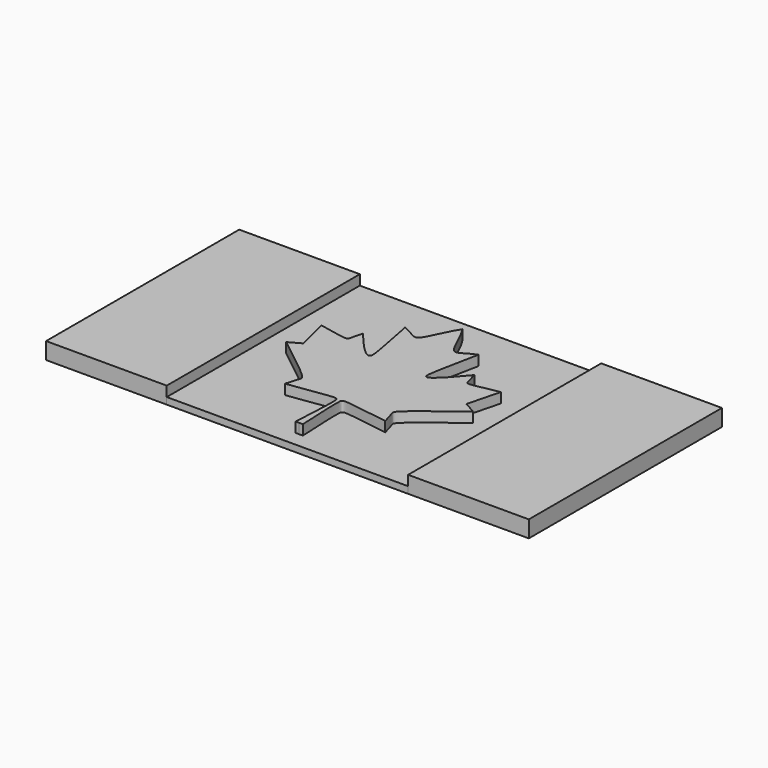
from build123d import *

# Parameters (mm, degrees)
F1_DEPTH = 6.35
F2_DEPTH = 6.35
F3_DEPTH = 2.54


with BuildPart() as f1:
    # F0 (on Top) → F1 (new body)
    with BuildSketch(Plane.XY):
        with BuildLine():
            Line((-1.1164610549, 39.0533058461), (-1.3339204969, -38.0429194985))
            Line((-1.3339204969, -38.0429194985), (0.043793726, -38.0506915872))
            add(Edge.make_bspline(
                [(17.7718664224, -21.1589155134), (0.1168053946, -18.7791340155), (-1.0387706532, -16.7492385287), (-0.4033229494, -28.6495818456), (0.043793726, -38.0506915872)],
                knots=[0, 0, 0, 0, 0.5041261797, 1, 1, 1, 1], degree=3))
            add(Edge.make_bspline(
                [(34.259852291, -0.2001895396), (15.8490805469, -14.437276867), (15.606946184, -14.5352669143), (17.1132727169, -18.5110401656), (17.7718664224, -21.1589155134)],
                knots=[0, 0, 0, 0, 0.6881774781, 1, 1, 1, 1], degree=3))
            add(Edge.make_bspline(
                [(32.9433250223, 14.7062445461), (30.3384353377, 4.5988348356), (29.6250505829, 1.7969355622), (29.7988422881, 2.4774735189), (34.259852291, -0.2001895396)],
                knots=[0, 0, 0, 0, 0.6090344785, 1, 1, 1, 1], degree=3))
            add(Edge.make_bspline(
                [(19.9948317708, 18.2764506918), (21.3200481739, 14.2618131265), (20.2614912616, 11.4966035445), (28.156229911, 14.0229906255), (32.9433250223, 14.7062445461)],
                knots=[0, 0, 0, 0, 0.4189137049, 1, 1, 1, 1], degree=3))
            add(Edge.make_bspline(
                [(19.9948317708, 18.2764506918), (12.7340992756, 9.5459144575), (8.0946791533, 6.723535087), (9.1870973138, 11.2900662286), (12.8041103318, 29.2666911636)],
                knots=[0, 0, 0, 0, 0.4511568874, 1, 1, 1, 1], degree=3))
            add(Edge.make_bspline(
                [(12.8041103318, 29.2666911636), (8.8818789195, 27.6771241004), (5.2027866351, 23.0069980044), (2.3285752692, 33.7038039952), (-1.1164610549, 39.0533058461)],
                knots=[0, 0, 0, 0, 0.4172698872, 1, 1, 1, 1], degree=3))
        make_face()
        with BuildLine():
            add(Edge.make_bspline(
                [(-20.3441573239, -21.0514045527), (-2.6759523888, -18.7712566966), (-1.5089436766, -16.7479123475), (-2.2115135166, -28.6444816204), (-2.7116566419, -38.0429194985)],
                knots=[0, 0, 0, 0, 0.5041261797, 1, 1, 1, 1], degree=3))
            Line((-2.7116566419, -38.0429194985), (-1.3339204969, -38.0429194985))
            Line((-1.3339204969, -38.0429194985), (-1.1164610549, 39.0533058461))
            add(Edge.make_bspline(
                [(-15.0920192174, 29.3453756483), (-11.1788172842, 27.7337077759), (-7.5261286677, 23.0429014849), (-4.5916201862, 33.7233232627), (-1.1164610549, 39.0533058461)],
                knots=[0, 0, 0, 0, 0.4172698872, 1, 1, 1, 1], degree=3))
            add(Edge.make_bspline(
                [(-22.3446244123, 18.3958743662), (-15.1332581712, 9.624517787), (-10.5098334836, 6.7760114166), (-11.5764735348, 11.3486324491), (-15.0920192174, 29.3453756483)],
                knots=[0, 0, 0, 0, 0.4511568874, 1, 1, 1, 1], degree=3))
            add(Edge.make_bspline(
                [(-22.3446244123, 18.3958743662), (-23.6924671127, 14.3887764949), (-22.6495261512, 11.617639378), (-30.5298873205, 14.1885220798), (-35.3130518872, 14.8987701018)],
                knots=[0, 0, 0, 0, 0.4189137049, 1, 1, 1, 1], degree=3))
            add(Edge.make_bspline(
                [(-35.3130518872, 14.8987701018), (-32.7652215964, 4.7768265072), (-32.0676542741, 1.9709474689), (-32.2376041616, 2.6524549912), (-36.7136484219, 0)],
                knots=[0, 0, 0, 0, 0.6090344785, 1, 1, 1, 1], degree=3))
            add(Edge.make_bspline(
                [(-36.7136484219, 0), (-18.3834839181, -14.3407196837), (-18.1419061896, -14.4400741007), (-19.6706368965, -18.4072865976), (-20.3441573239, -21.0514045527)],
                knots=[0, 0, 0, 0, 0.6881774781, 1, 1, 1, 1], degree=3))
        make_face()
    extrude(amount=F1_DEPTH)


with BuildPart() as f2:
    # F0 (on Top) → F2 (new body)
    with BuildSketch(Plane.XY):
        Polygon((90.4174440865, 47.6318820421), (44.6475883337, 47.6318820421), (44.6475883337, -43.2670230994), (44.6475883337, -43.9020230994), (90.4174440865, -43.9020230994), align=None)
    extrude(amount=F2_DEPTH)


with BuildPart() as f2b:
    # F0 (on Top) → F2, piece 2 (new body)
    with BuildSketch(Plane.XY):
        Polygon((-46.8966577759, 47.6318820421), (-92.6503661963, 47.6318820421), (-92.6503661963, -43.9020230994), (-46.8966577759, -43.9020230994), (-46.8966577759, -43.2670230994), align=None)
    extrude(amount=F2_DEPTH)


with BuildPart() as f3:
    # F0 (on Top) → F3 (new body)
    with BuildSketch(Plane.XY):
        Polygon((44.6475883337, 47.6318820421), (-46.8966577759, 47.6318820421), (-46.8966577759, -43.2670230994), (-46.8966577759, -43.9020230994), (44.6475883337, -43.9020230994), (44.6475883337, -43.2670230994), align=None)
        with BuildLine():
            Line((-1.3339204969, -38.0429194985), (-2.7116566419, -38.0429194985))
            add(Edge.make_bspline(
                [(-20.3441573239, -21.0514045527), (-2.6759523888, -18.7712566966), (-1.5089436766, -16.7479123475), (-2.2115135166, -28.6444816204), (-2.7116566419, -38.0429194985)],
                knots=[0, 0, 0, 0, 0.5041261797, 1, 1, 1, 1], degree=3))
            add(Edge.make_bspline(
                [(-36.7136484219, 0), (-18.3834839181, -14.3407196837), (-18.1419061896, -14.4400741007), (-19.6706368965, -18.4072865976), (-20.3441573239, -21.0514045527)],
                knots=[0, 0, 0, 0, 0.6881774781, 1, 1, 1, 1], degree=3))
            add(Edge.make_bspline(
                [(-35.3130518872, 14.8987701018), (-32.7652215964, 4.7768265072), (-32.0676542741, 1.9709474689), (-32.2376041616, 2.6524549912), (-36.7136484219, 0)],
                knots=[0, 0, 0, 0, 0.6090344785, 1, 1, 1, 1], degree=3))
            add(Edge.make_bspline(
                [(-22.3446244123, 18.3958743662), (-23.6924671127, 14.3887764949), (-22.6495261512, 11.617639378), (-30.5298873205, 14.1885220798), (-35.3130518872, 14.8987701018)],
                knots=[0, 0, 0, 0, 0.4189137049, 1, 1, 1, 1], degree=3))
            add(Edge.make_bspline(
                [(-22.3446244123, 18.3958743662), (-15.1332581712, 9.624517787), (-10.5098334836, 6.7760114166), (-11.5764735348, 11.3486324491), (-15.0920192174, 29.3453756483)],
                knots=[0, 0, 0, 0, 0.4511568874, 1, 1, 1, 1], degree=3))
            add(Edge.make_bspline(
                [(-15.0920192174, 29.3453756483), (-11.1788172842, 27.7337077759), (-7.5261286677, 23.0429014849), (-4.5916201862, 33.7233232627), (-1.1164610549, 39.0533058461)],
                knots=[0, 0, 0, 0, 0.4172698872, 1, 1, 1, 1], degree=3))
            add(Edge.make_bspline(
                [(12.8041103318, 29.2666911636), (8.8818789195, 27.6771241004), (5.2027866351, 23.0069980044), (2.3285752692, 33.7038039952), (-1.1164610549, 39.0533058461)],
                knots=[0, 0, 0, 0, 0.4172698872, 1, 1, 1, 1], degree=3))
            add(Edge.make_bspline(
                [(19.9948317708, 18.2764506918), (12.7340992756, 9.5459144575), (8.0946791533, 6.723535087), (9.1870973138, 11.2900662286), (12.8041103318, 29.2666911636)],
                knots=[0, 0, 0, 0, 0.4511568874, 1, 1, 1, 1], degree=3))
            add(Edge.make_bspline(
                [(19.9948317708, 18.2764506918), (21.3200481739, 14.2618131265), (20.2614912616, 11.4966035445), (28.156229911, 14.0229906255), (32.9433250223, 14.7062445461)],
                knots=[0, 0, 0, 0, 0.4189137049, 1, 1, 1, 1], degree=3))
            add(Edge.make_bspline(
                [(32.9433250223, 14.7062445461), (30.3384353377, 4.5988348356), (29.6250505829, 1.7969355622), (29.7988422881, 2.4774735189), (34.259852291, -0.2001895396)],
                knots=[0, 0, 0, 0, 0.6090344785, 1, 1, 1, 1], degree=3))
            add(Edge.make_bspline(
                [(34.259852291, -0.2001895396), (15.8490805469, -14.437276867), (15.606946184, -14.5352669143), (17.1132727169, -18.5110401656), (17.7718664224, -21.1589155134)],
                knots=[0, 0, 0, 0, 0.6881774781, 1, 1, 1, 1], degree=3))
            add(Edge.make_bspline(
                [(17.7718664224, -21.1589155134), (0.1168053946, -18.7791340155), (-1.0387706532, -16.7492385287), (-0.4033229494, -28.6495818456), (0.043793726, -38.0506915872)],
                knots=[0, 0, 0, 0, 0.5041261797, 1, 1, 1, 1], degree=3))
            Line((0.043793726, -38.0506915872), (-1.3339204969, -38.0429194985))
        make_face(mode=Mode.SUBTRACT)
    extrude(amount=F3_DEPTH)


solid = Compound([f1.part, f2.part, f2b.part, f3.part])
